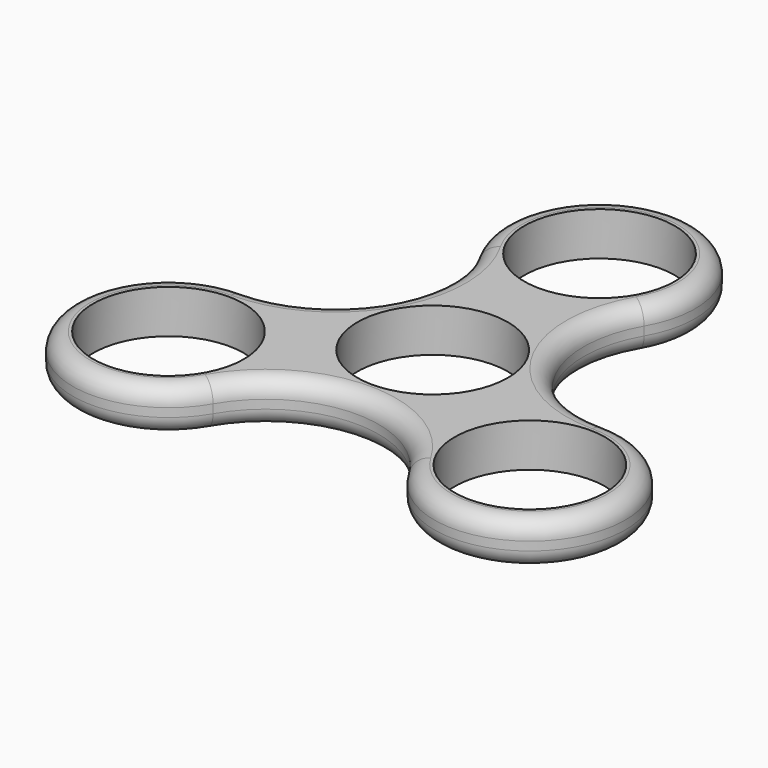
from build123d import *

# Parameters (mm, degrees)
F1_R     = 10.9982
F2_DEPTH = 6.35
F3_R     = 2.54


with BuildPart() as f2:
    # F1 (on Top) → F2 (new body)
    with BuildSketch(Plane.XY):
        with BuildLine():
            ThreePointArc((26.396454, -1.27), (12.098375, 6.985), (12.098375, 23.495))
            ThreePointArc((12.098375, 23.495), (0, 44.45), (-12.098375, 23.495))
            ThreePointArc((-12.098375, 23.495), (-12.098375, 6.985), (-26.396454, -1.27))
            ThreePointArc((-26.396454, -1.27), (-38.494829, -22.225), (-14.298079, -22.225))
            ThreePointArc((-14.298079, -22.225), (0, -13.97), (14.298079, -22.225))
            ThreePointArc((14.298079, -22.225), (38.494829, -22.225), (26.396454, -1.27))
        make_face()
        with Locations((-26.396454, -15.24)):
            Circle(F1_R, mode=Mode.SUBTRACT)
        with Locations((26.396454, -15.24)):
            Circle(F1_R, mode=Mode.SUBTRACT)
        Circle(F1_R, mode=Mode.SUBTRACT)
        with Locations((0, 30.48)):
            Circle(F1_R, mode=Mode.SUBTRACT)
    extrude(amount=F2_DEPTH)

    # F3
    f3_edges = [f2.edges().sort_by_distance(p)[0] for p in [
        (0, -13.97, 6.35),
        (0, -13.97, 0),
    ]]
    fillet(f3_edges, radius=F3_R)


solid = f2.part
